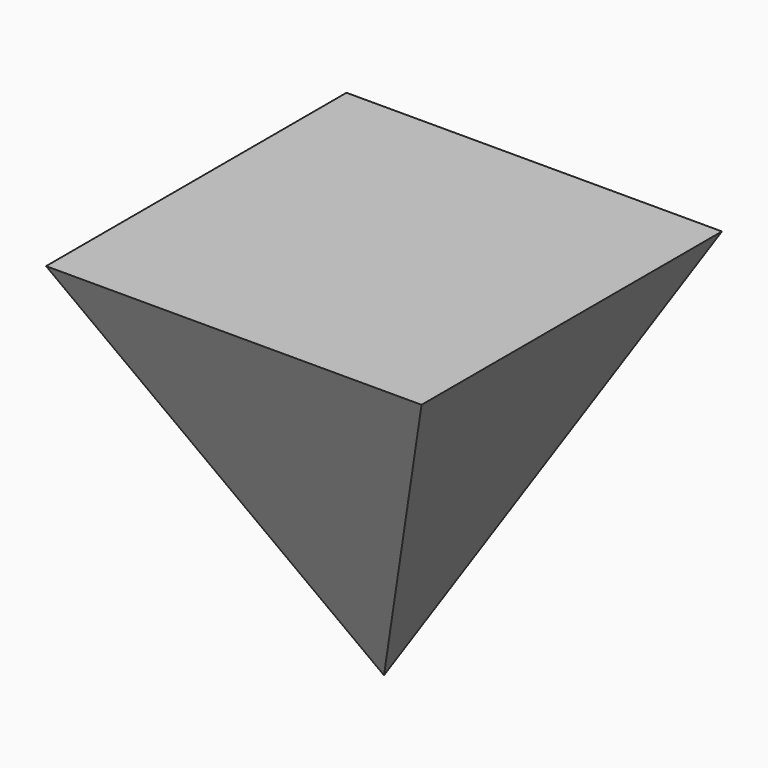
from build123d import *

# Parameters (mm, degrees)
F0_W          = 100
F0_H          = 100
F1_DEPTH      = 50
F3_DEPTH      = 100
F5_DEPTH      = 100
F5_DEPTH_BACK = 100


with BuildPart() as f1:
    # F0 (on Top) → F1 (new body, symmetric)
    with BuildSketch(Plane.XY):
        Rectangle(F0_W, F0_H)
    extrude(amount=F1_DEPTH, both=True)

    # F2 (on face) → F3 (cut, through all)
    with BuildSketch(Plane.YZ.offset(50)):
        Polygon((-50, -50), (0, -50), (-50, 50), align=None)
        Polygon((50, -50), (50, 50), (0, -50), align=None)
    extrude(amount=-F3_DEPTH, mode=Mode.SUBTRACT)

    # F4 (on Front) → F5 (cut, two sides)
    with BuildSketch(Plane.XZ) as f5_sk:
        Polygon((50, 50), (0, -50), (50, -50), align=None)
        Polygon((0, -50), (-50, 50), (-50, -50), align=None)
    extrude(amount=-F5_DEPTH, mode=Mode.SUBTRACT)
    extrude(f5_sk.sketch, amount=F5_DEPTH_BACK, mode=Mode.SUBTRACT)


solid = f1.part
